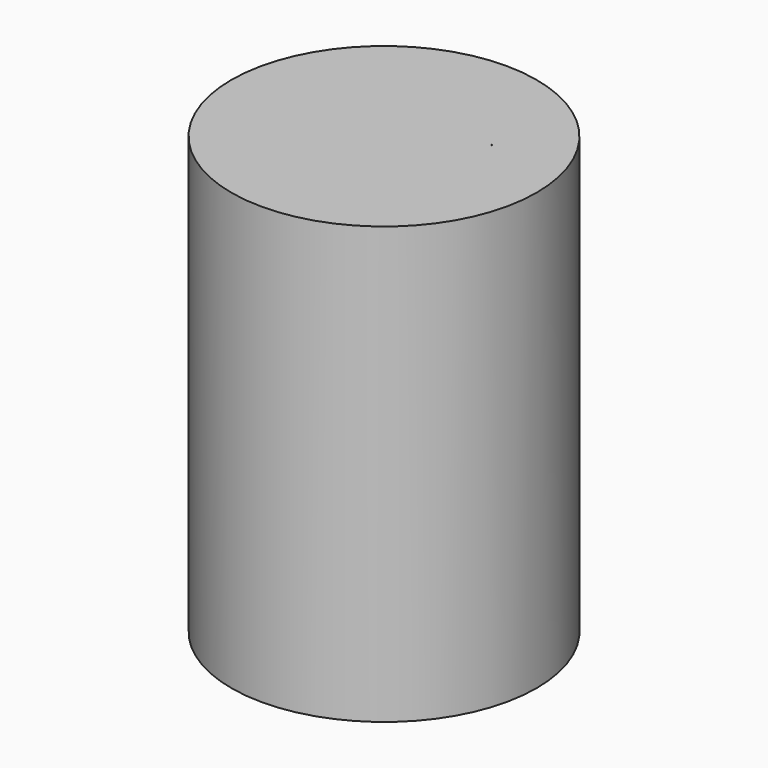
from build123d import *

# Parameters (mm, degrees)
F0_R     = 44.45
F0_W     = 0.0762
F0_H     = 0.0762
F1_DEPTH = 127
F2_DEPTH = 127.254


with BuildPart() as f1:
    # F0 (on Top) → F1 (new body)
    with BuildSketch(Plane.XY):
        Circle(F0_R)
        with Locations((21.992200579, 11.653348397)):
            Rectangle(F0_W, F0_H, mode=Mode.SUBTRACT)
    extrude(amount=F1_DEPTH)

    # F0 (on Top) → F2 (join)
    with BuildSketch(Plane.XY):
        with Locations((21.992200579, 11.653348397)):
            Rectangle(F0_W, F0_H)
    extrude(amount=F2_DEPTH)


solid = f1.part
